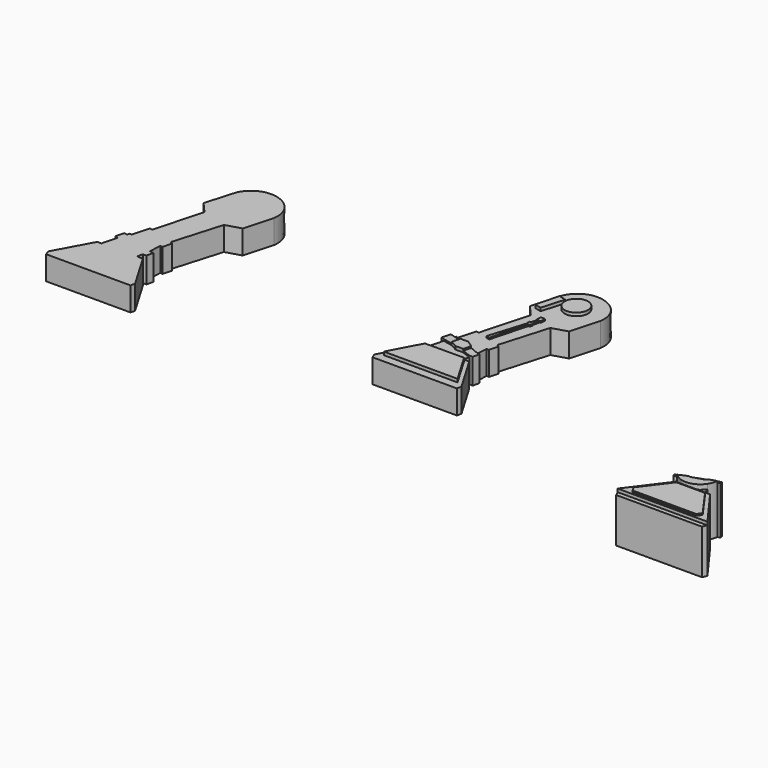
from build123d import *

# Parameters (mm, degrees)
F0_R     = 7.36782
F1_DEPTH = 15
F2_DEPTH = 17
F3_DEPTH = 16
F4_DEPTH = 31
F5_DEPTH = 30
F6_DEPTH = 28
F7_DEPTH = 15
F8_DEPTH = 17
F9_DEPTH = 16


with BuildPart() as f1:
    # F0 (on Top) → F1 (new body)
    with BuildSketch(Plane.XY):
        Polygon((-480.26676, 761.615096), (-482.862148, 761.615096), (-495.388133, 738.590427), (-494.285359, 735.667343), (-441.200272, 735.667343), (-440.549846, 738.470241), (-454.234663, 761.701019), (-457.96538, 761.701019), (-457.092818, 765.317777), (-462.636632, 767.479949), (-467.424752, 767.479949), (-471.706155, 769.855038), (-477.787454, 771.148498), align=None)
        Polygon((-444.916069, 740.853003), (-491.228255, 740.853003), (-480.922344, 760.237656), (-456.415113, 760.373303), align=None, mode=Mode.SUBTRACT)
        with BuildLine():
            Line((-476.268075, 776.722393), (-470.473856, 775.032209))
            Line((-470.473856, 775.032209), (-465.569897, 775.032209))
            Line((-465.569897, 775.032209), (-461.345987, 772.175183))
            Line((-461.345987, 772.175183), (-456.415113, 770.110082))
            Line((-456.415113, 770.110082), (-456.012012, 777.636537))
            Line((-456.012012, 777.636537), (-454.503449, 777.555741))
            Line((-454.503449, 777.555741), (-452.995207, 783.113148))
            Line((-452.995207, 783.113148), (-454.503449, 784.130093))
            Line((-454.503449, 784.130093), (-445.547604, 814.561263))
            Line((-445.547604, 814.561263), (-435.99152, 817.391737))
            Line((-435.99152, 817.391737), (-430.923874, 835.597496))
            add(Edge.make_bspline(
                [(-462.183383, 846.003122), (-452.924419, 862.658207), (-428.310821, 853.238513), (-430.923874, 835.597496)],
                knots=[0, 0, 0, 0, 32.945924, 32.945924, 32.945924, 32.945924], degree=3))
            Line((-462.183383, 846.003122), (-467.877684, 826.482149))
            Line((-467.877684, 826.482149), (-461.500022, 819.216433))
            Line((-461.500022, 819.216433), (-469.915011, 788.603562))
            Line((-469.915011, 788.603562), (-471.511505, 789.042413))
            Line((-471.511505, 789.042413), (-474.516276, 778.111362))
            Line((-474.516276, 778.111362), (-475.790024, 778.461495))
            Line((-475.790024, 778.461495), (-476.268075, 776.722393))
        make_face()
        Polygon((-461.301275, 786.211846), (-463.375402, 786.760875), (-456.284502, 809.74074), (-456.51463, 810.186364), (-456.51463, 811.781338), (-455.522064, 812.184671), (-454.503449, 816.032804), (-455.192699, 816.032804), (-454.983436, 819.08424), (-452.273876, 818.898422), (-452.479562, 815.899159), (-453.212284, 815.949408), (-454.111368, 811.781338), (-453.736792, 810.979417), (-454.224826, 809.288875), (-455.192699, 809.288875), align=None, mode=Mode.SUBTRACT)
        Polygon((-464.49093, 826.482149), (-460.781219, 840.851479), (-456.206289, 839.68608), (-460.368361, 825.417831), align=None, mode=Mode.SUBTRACT)
        with Locations((-447.902613, 838.04047)):
            Circle(F0_R, mode=Mode.SUBTRACT)
    extrude(amount=F1_DEPTH)

    # F0 (on Top) → F2 (join)
    with BuildSketch(Plane.XY):
        Polygon((-480.922344, 760.237656), (-491.228255, 740.853003), (-444.916069, 740.853003), (-456.415113, 760.373303), align=None)
        Polygon((-470.473856, 775.032209), (-471.706155, 769.855038), (-467.424752, 767.479949), (-462.636632, 767.479949), (-461.345987, 772.175183), (-465.569897, 775.032209), align=None)
        with Locations((-447.902613, 838.04047)):
            Circle(F0_R)
        Polygon((-456.206289, 839.68608), (-460.781219, 840.851479), (-464.49093, 826.482149), (-460.368361, 825.417831), align=None)
    extrude(amount=F2_DEPTH)

    # F0 (on Top) → F3 (join)
    with BuildSketch(Plane.XY):
        Polygon((-479.744345, 771.976181), (-477.787454, 771.148498), (-471.706155, 769.855038), (-470.473856, 775.032209), (-476.268075, 776.722393), (-478.287126, 777.277398), align=None)
        Polygon((-461.345987, 772.175183), (-462.636632, 767.479949), (-457.092818, 765.317777), (-454.915526, 765.317777), (-453.983141, 769.577801), (-456.415113, 770.110082), align=None)
        Polygon((-456.284502, 809.74074), (-463.375402, 786.760875), (-461.301275, 786.211846), (-455.192699, 809.288875), (-454.224826, 809.288875), (-453.736792, 810.979417), (-456.51463, 811.781338), (-456.51463, 810.186364), align=None)
        Polygon((-455.522064, 812.184671), (-456.51463, 811.781338), (-453.736792, 810.979417), (-454.111368, 811.781338), (-453.212284, 815.949408), (-452.479562, 815.899159), (-452.273876, 818.898422), (-454.983436, 819.08424), (-455.192699, 816.032804), (-454.503449, 816.032804), align=None)
    extrude(amount=F3_DEPTH)


with BuildPart() as f4:
    # F0 (on Top) → F4 (new body)
    with BuildSketch(Plane.XY):
        Polygon((-288.381862, 683.756456), (-286.775082, 680.815399), (-246.773198, 680.815399), (-244.797745, 683.441229), (-257.325947, 701.005697), (-275.40499, 701.005697), align=None)
        with BuildLine():
            Line((-275.283469, 709.858781), (-280.289498, 707.60535))
            add(Edge.make_bspline(
                [(-280.289498, 707.60535), (-278.607655, 706.137166), (-276.89318, 705.178752), (-275.211786, 704.642773)],
                knots=[0, 0, 0, 0, 3.884945, 3.884945, 3.884945, 3.884945], degree=3))
            add(Edge.make_bspline(
                [(-275.211786, 704.642773), (-269.95391, 702.966718), (-265.019518, 705.421532), (-262.418021, 709.336637)],
                knots=[3.884945, 3.884945, 3.884945, 3.884945, 16.033525, 16.033525, 16.033525, 16.033525], degree=3))
            add(Edge.make_bspline(
                [(-262.418021, 709.336637), (-261.360047, 710.928828), (-260.687905, 712.762534), (-260.536748, 714.658132)],
                knots=[16.033525, 16.033525, 16.033525, 16.033525, 20.9741, 20.9741, 20.9741, 20.9741], degree=3))
            Line((-260.536748, 714.658132), (-265.126616, 713.318944))
            Line((-265.126616, 713.318944), (-265.965015, 712.140977))
            Line((-265.965015, 712.140977), (-273.385763, 709.858781))
            Line((-273.385763, 709.858781), (-275.283469, 709.858781))
        make_face()
    extrude(amount=F4_DEPTH)

    # F0 (on Top) → F5 (join)
    with BuildSketch(Plane.XY):
        Polygon((-260.0859, 702.879893), (-275.211786, 702.879893), (-277.240654, 702.879893), (-294.964661, 679.320621), (-238.476609, 679.320621), (-255.675753, 702.879893), align=None)
        Polygon((-246.773198, 680.815399), (-286.775082, 680.815399), (-288.381862, 683.756456), (-275.40499, 701.005697), (-257.325947, 701.005697), (-244.797745, 683.441229), align=None, mode=Mode.SUBTRACT)
        Polygon((-259.301281, 716.737509), (-282.702804, 708.41831), (-281.991899, 706.839025), (-280.289498, 707.60535), (-275.283469, 709.858781), (-273.385763, 709.858781), (-265.965015, 712.140977), (-265.126616, 713.318944), (-260.536748, 714.658132), (-258.839101, 715.153456), align=None)
    extrude(amount=F5_DEPTH)

    # F0 (on Top) → F6 (join)
    with BuildSketch(Plane.XY):
        with BuildLine():
            add(Edge.make_bspline(
                [(-275.211786, 704.642773), (-269.95391, 702.966718), (-265.019518, 705.421532), (-262.418021, 709.336637)],
                knots=[3.884945, 3.884945, 3.884945, 3.884945, 16.033525, 16.033525, 16.033525, 16.033525], degree=3))
            Line((-275.211786, 704.642773), (-275.211786, 702.879893))
            Line((-275.211786, 702.879893), (-260.0859, 702.879893))
            Line((-260.0859, 702.879893), (-262.418021, 709.336637))
        make_face()
        Polygon((-238.476609, 679.320621), (-294.964661, 679.320621), (-293.642243, 676.511633), (-239.725458, 676.511633), align=None)
    extrude(amount=F6_DEPTH)


with BuildPart() as f7:
    # F0 (on Top) → F7 (new body)
    with BuildSketch(Plane.XY):
        Polygon((-691.900074, 769.543181), (-694.495462, 769.543181), (-707.021448, 746.518513), (-705.918673, 743.595429), (-652.833587, 743.595429), (-652.183161, 746.398326), (-665.867978, 769.629105), (-669.598695, 769.629105), (-668.726132, 773.245863), (-674.269947, 775.408034), (-679.058067, 775.408034), (-683.33947, 777.783124), (-689.420769, 779.076583), align=None)
        Polygon((-656.549384, 748.781089), (-702.86157, 748.781089), (-692.555659, 768.165741), (-668.048428, 768.301389), align=None, mode=Mode.SUBTRACT)
        with BuildLine():
            Line((-687.90139, 784.650479), (-682.107171, 782.960295))
            Line((-682.107171, 782.960295), (-677.203212, 782.960295))
            Line((-677.203212, 782.960295), (-672.979302, 780.103269))
            Line((-672.979302, 780.103269), (-668.048428, 778.038168))
            Line((-668.048428, 778.038168), (-667.645327, 785.564622))
            Line((-667.645327, 785.564622), (-666.136763, 785.483827))
            Line((-666.136763, 785.483827), (-664.628522, 791.041233))
            Line((-664.628522, 791.041233), (-666.136763, 792.058179))
            Line((-666.136763, 792.058179), (-657.180919, 822.489348))
            Line((-657.180919, 822.489348), (-647.624835, 825.319823))
            Line((-647.624835, 825.319823), (-642.557189, 843.525582))
            add(Edge.make_bspline(
                [(-673.816698, 853.931207), (-664.557734, 870.586293), (-639.944136, 861.166599), (-642.557189, 843.525582)],
                knots=[0, 0, 0, 0, 32.945924, 32.945924, 32.945924, 32.945924], degree=3))
            Line((-673.816698, 853.931207), (-679.510999, 834.410235))
            Line((-679.510999, 834.410235), (-673.133337, 827.144519))
            Line((-673.133337, 827.144519), (-681.548326, 796.531648))
            Line((-681.548326, 796.531648), (-683.14482, 796.970499))
            Line((-683.14482, 796.970499), (-686.149591, 786.039447))
            Line((-686.149591, 786.039447), (-687.423339, 786.38958))
            Line((-687.423339, 786.38958), (-687.90139, 784.650479))
        make_face()
        Polygon((-672.93459, 794.139932), (-675.008717, 794.688961), (-667.917817, 817.668826), (-668.147945, 818.11445), (-668.147945, 819.709424), (-667.155379, 820.112757), (-666.136763, 823.96089), (-666.826014, 823.96089), (-666.616751, 827.012326), (-663.907191, 826.826507), (-664.112877, 823.827245), (-664.845599, 823.877494), (-665.744683, 819.709424), (-665.370106, 818.907503), (-665.858141, 817.216961), (-666.826014, 817.216961), align=None, mode=Mode.SUBTRACT)
        Polygon((-676.124245, 834.410235), (-672.414534, 848.779565), (-667.839603, 847.614166), (-672.001676, 833.345917), align=None, mode=Mode.SUBTRACT)
        with Locations((-659.535928, 845.968556)):
            Circle(F0_R, mode=Mode.SUBTRACT)
    extrude(amount=-F7_DEPTH)

    # F0 (on Top) → F8 (join)
    with BuildSketch(Plane.XY):
        with Locations((-659.535928, 845.968556)):
            Circle(F0_R)
        Polygon((-667.839603, 847.614166), (-672.414534, 848.779565), (-676.124245, 834.410235), (-672.001676, 833.345917), align=None)
        Polygon((-682.107171, 782.960295), (-683.33947, 777.783124), (-679.058067, 775.408034), (-674.269947, 775.408034), (-672.979302, 780.103269), (-677.203212, 782.960295), align=None)
        Polygon((-692.555659, 768.165741), (-702.86157, 748.781089), (-656.549384, 748.781089), (-668.048428, 768.301389), align=None)
        Polygon((-667.917817, 817.668826), (-675.008717, 794.688961), (-672.93459, 794.139932), (-666.826014, 817.216961), (-665.858141, 817.216961), (-665.370106, 818.907503), (-668.147945, 819.709424), (-668.147945, 818.11445), align=None)
        Polygon((-667.155379, 820.112757), (-668.147945, 819.709424), (-665.370106, 818.907503), (-665.744683, 819.709424), (-664.845599, 823.877494), (-664.112877, 823.827245), (-663.907191, 826.826507), (-666.616751, 827.012326), (-666.826014, 823.96089), (-666.136763, 823.96089), align=None)
    extrude(amount=-F8_DEPTH)

    # F0 (on Top) → F9 (join)
    with BuildSketch(Plane.XY):
        Polygon((-691.37766, 779.904266), (-689.420769, 779.076583), (-683.33947, 777.783124), (-682.107171, 782.960295), (-687.90139, 784.650479), (-689.92044, 785.205483), align=None)
        Polygon((-672.979302, 780.103269), (-674.269947, 775.408034), (-668.726132, 773.245863), (-666.548841, 773.245863), (-665.616456, 777.505887), (-668.048428, 778.038168), align=None)
    extrude(amount=-F9_DEPTH)


solid = Compound([f1.part, f4.part, f7.part])
